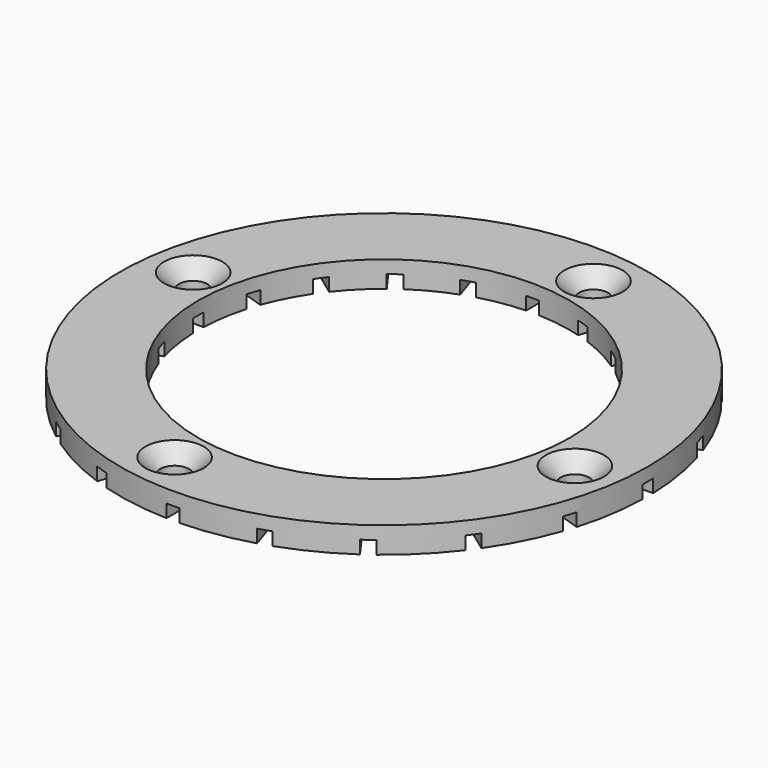
from build123d import *

# Parameters (mm, degrees)
F0_R           = 101.374
F0_R_2         = 71.394
F1_DEPTH       = 10
F3_DEPTH       = 5
F5_D           = 11
F5_CSINK_D     = 22.4
F5_CSINK_ANGLE = 90


with BuildPart() as f1:
    # F0 (on Top) → F1 (new body)
    with BuildSketch(Plane.XY):
        Circle(F0_R)
        Circle(F0_R_2, mode=Mode.SUBTRACT)
    extrude(amount=F1_DEPTH)

    # F2 (on face) → F3 (cut)
    with BuildSketch(Plane(origin=(0, 0, 0), x_dir=(1, 0, 0), z_dir=(0, 0, -1))):
        with BuildLine():
            ThreePointArc((2.5, 101.343168867), (1.2500950523, 101.3662919237), (0, 101.374))
            ThreePointArc((0, 101.374), (-1.2500950523, 101.3662919237), (-2.5, 101.343168867))
            Line((-2.5, 101.343168867), (-2.5, 71.3502153886))
            ThreePointArc((-2.5, 71.3502153886), (0, 71.394), (2.5, 71.3502153886))
            Line((2.5, 71.3502153886), (2.5, 101.343168867))
        make_face()
        with BuildLine():
            ThreePointArc((31.3262879268, 96.4124035626), (30.1349953836, 96.791373217), (28.939120153, 97.1556236189))
            Line((28.939120153, 97.1556236189), (19.6707878167, 68.6306297703))
            ThreePointArc((19.6707878167, 68.6306297703), (22.0619592964, 67.8997289244), (24.4260703981, 67.0855447985))
            Line((24.4260703981, 67.0855447985), (33.6944027344, 95.610538647))
            ThreePointArc((33.6944027344, 95.610538647), (32.5128174779, 96.0187719961), (31.3262879268, 96.4124035626))
        make_face()
        with BuildLine():
            Line((57.5454775947, 83.4578090079), (39.9160618674, 59.1929999324))
            ThreePointArc((39.9160618674, 59.1929999324), (41.9643403022, 57.7589592964), (43.9611468392, 56.254073671))
            Line((43.9611468392, 56.254073671), (61.5905625665, 80.5188827465))
            ThreePointArc((61.5905625665, 80.5188827465), (60.592959405, 81.2722655433), (59.5861417437, 82.0132890945))
            ThreePointArc((59.5861417437, 82.0132890945), (58.5702631175, 82.7418404095), (57.5454775947, 83.4578090079))
        make_face()
        with BuildLine():
            Line((80.5188827465, 61.5905625665), (56.254073671, 43.9611468392))
            ThreePointArc((56.254073671, 43.9611468392), (57.7589592964, 41.9643403022), (59.1929999324, 39.9160618674))
            Line((59.1929999324, 39.9160618674), (83.4578090079, 57.5454775947))
            ThreePointArc((83.4578090079, 57.5454775947), (82.7418395043, 58.5702643962), (82.0132872528, 59.5861442786))
            ThreePointArc((82.0132872528, 59.5861442786), (81.2722646069, 60.592960661), (80.5188827465, 61.5905625665))
        make_face()
        with BuildLine():
            Line((95.610538647, 33.6944027344), (67.0855447985, 24.4260703981))
            ThreePointArc((67.0855447985, 24.4260703981), (67.8997289244, 22.0619592964), (68.6306297703, 19.6707878167))
            Line((68.6306297703, 19.6707878167), (97.1556236189, 28.939120153))
            ThreePointArc((97.1556236189, 28.939120153), (96.7913734751, 30.1349945547), (96.4124040992, 31.3262862756))
            ThreePointArc((96.4124040992, 31.3262862756), (96.0187722746, 32.5128166557), (95.610538647, 33.6944027344))
        make_face()
        with BuildLine():
            Line((101.343168867, 2.5), (71.3502153886, 2.5))
            ThreePointArc((71.3502153886, 2.5), (71.3830530079, 1.2501916945), (71.394, 0))
            ThreePointArc((71.394, 0), (71.3830530079, -1.2501916945), (71.3502153886, -2.5))
            Line((71.3502153886, -2.5), (101.343168867, -2.5))
            ThreePointArc((101.343168867, -2.5), (101.3662919237, -1.2500950523), (101.374, 0))
            ThreePointArc((101.374, 0), (101.3662919237, 1.2500950523), (101.343168867, 2.5))
        make_face()
        with BuildLine():
            Line((97.1556236189, -28.939120153), (68.6306297703, -19.6707878167))
            ThreePointArc((68.6306297703, -19.6707878167), (67.8997289244, -22.0619592964), (67.0855447985, -24.4260703981))
            Line((67.0855447985, -24.4260703981), (95.610538647, -33.6944027344))
            ThreePointArc((95.610538647, -33.6944027344), (96.0187719961, -32.5128174779), (96.4124035626, -31.3262879268))
            ThreePointArc((96.4124035626, -31.3262879268), (96.791373217, -30.1349953836), (97.1556236189, -28.939120153))
        make_face()
        with BuildLine():
            Line((83.4578090079, -57.5454775947), (59.1929999324, -39.9160618674))
            ThreePointArc((59.1929999324, -39.9160618674), (57.7589592964, -41.9643403022), (56.254073671, -43.9611468392))
            Line((56.254073671, -43.9611468392), (80.5188827465, -61.5905625665))
            ThreePointArc((80.5188827465, -61.5905625665), (81.2722651856, -60.5929598848), (82.013288391, -59.586142712))
            ThreePointArc((82.013288391, -59.586142712), (82.7418400637, -58.5702636059), (83.4578090079, -57.5454775947))
        make_face()
        with BuildLine():
            Line((61.5905625665, -80.5188827465), (43.9611468392, -56.254073671))
            ThreePointArc((43.9611468392, -56.254073671), (41.9643403022, -57.7589592964), (39.9160618674, -59.1929999324))
            Line((39.9160618674, -59.1929999324), (57.5454775947, -83.4578090079))
            ThreePointArc((57.5454775947, -83.4578090079), (58.5702643962, -82.7418395043), (59.5861442786, -82.0132872528))
            ThreePointArc((59.5861442786, -82.0132872528), (60.592960661, -81.2722646069), (61.5905625665, -80.5188827465))
        make_face()
        with BuildLine():
            Line((33.6944027344, -95.610538647), (24.4260703981, -67.0855447985))
            ThreePointArc((24.4260703981, -67.0855447985), (22.0619592964, -67.8997289244), (19.6707878167, -68.6306297703))
            Line((19.6707878167, -68.6306297703), (28.939120153, -97.1556236189))
            ThreePointArc((28.939120153, -97.1556236189), (30.1349953836, -96.791373217), (31.3262879268, -96.4124035626))
            ThreePointArc((31.3262879268, -96.4124035626), (32.5128174779, -96.0187719961), (33.6944027344, -95.610538647))
        make_face()
        with BuildLine():
            ThreePointArc((2.5, -71.3502153886), (0, -71.394), (-2.5, -71.3502153886))
            Line((-2.5, -71.3502153886), (-2.5, -101.343168867))
            ThreePointArc((-2.5, -101.343168867), (-1.2500950523, -101.3662919237), (0, -101.374))
            ThreePointArc((0, -101.374), (1.2500950523, -101.3662919237), (2.5, -101.343168867))
            Line((2.5, -101.343168867), (2.5, -71.3502153886))
        make_face()
        with BuildLine():
            ThreePointArc((-19.6707878167, -68.6306297703), (-22.0619592964, -67.8997289244), (-24.4260703981, -67.0855447985))
            Line((-24.4260703981, -67.0855447985), (-33.6944027344, -95.610538647))
            ThreePointArc((-33.6944027344, -95.610538647), (-32.5128191824, -96.018771419), (-31.3262913498, -96.4124024505))
            ThreePointArc((-31.3262913498, -96.4124024505), (-30.1349971018, -96.791372682), (-28.939120153, -97.1556236189))
            Line((-28.939120153, -97.1556236189), (-19.6707878167, -68.6306297703))
        make_face()
        with BuildLine():
            ThreePointArc((-39.9160618674, -59.1929999324), (-41.9643403022, -57.7589592964), (-43.9611468392, -56.254073671))
            Line((-43.9611468392, -56.254073671), (-61.5905625665, -80.5188827465))
            ThreePointArc((-61.5905625665, -80.5188827465), (-60.5929601813, -81.2722649646), (-59.5861433104, -82.0132879563))
            ThreePointArc((-59.5861433104, -82.0132879563), (-58.5702639078, -82.7418398501), (-57.5454775947, -83.4578090079))
            Line((-57.5454775947, -83.4578090079), (-39.9160618674, -59.1929999324))
        make_face()
        with BuildLine():
            ThreePointArc((-56.254073671, -43.9611468392), (-57.7589592964, -41.9643403022), (-59.1929999324, -39.9160618674))
            Line((-59.1929999324, -39.9160618674), (-83.4578090079, -57.5454775947))
            ThreePointArc((-83.4578090079, -57.5454775947), (-82.7418404095, -58.5702631175), (-82.0132890945, -59.5861417437))
            ThreePointArc((-82.0132890945, -59.5861417437), (-81.2722655433, -60.592959405), (-80.5188827465, -61.5905625665))
            Line((-80.5188827465, -61.5905625665), (-56.254073671, -43.9611468392))
        make_face()
        with BuildLine():
            ThreePointArc((-67.0855447985, -24.4260703981), (-67.8997289244, -22.0619592964), (-68.6306297703, -19.6707878167))
            Line((-68.6306297703, -19.6707878167), (-97.1556236189, -28.939120153))
            ThreePointArc((-97.1556236189, -28.939120153), (-96.791373217, -30.1349953836), (-96.4124035626, -31.3262879268))
            ThreePointArc((-96.4124035626, -31.3262879268), (-96.0187719961, -32.5128174779), (-95.610538647, -33.6944027344))
            Line((-95.610538647, -33.6944027344), (-67.0855447985, -24.4260703981))
        make_face()
        with BuildLine():
            ThreePointArc((-71.3502153886, -2.5), (-71.394, 0), (-71.3502153886, 2.5))
            Line((-71.3502153886, 2.5), (-101.343168867, 2.5))
            ThreePointArc((-101.343168867, 2.5), (-101.3662919237, 1.2500950523), (-101.374, 0))
            ThreePointArc((-101.374, 0), (-101.3662919237, -1.2500950523), (-101.343168867, -2.5))
            Line((-101.343168867, -2.5), (-71.3502153886, -2.5))
        make_face()
        with BuildLine():
            ThreePointArc((-68.6306297703, 19.6707878167), (-67.8997289244, 22.0619592964), (-67.0855447985, 24.4260703981))
            Line((-67.0855447985, 24.4260703981), (-95.610538647, 33.6944027344))
            ThreePointArc((-95.610538647, 33.6944027344), (-96.0187717709, 32.5128181431), (-96.4124031286, 31.3262892627))
            ThreePointArc((-96.4124031286, 31.3262892627), (-96.7913730082, 30.1349960542), (-97.1556236189, 28.939120153))
            Line((-97.1556236189, 28.939120153), (-68.6306297703, 19.6707878167))
        make_face()
        with BuildLine():
            ThreePointArc((-59.1929999324, 39.9160618674), (-57.7589592964, 41.9643403022), (-56.254073671, 43.9611468392))
            Line((-56.254073671, 43.9611468392), (-80.5188827465, 61.5905625665))
            ThreePointArc((-80.5188827465, 61.5905625665), (-81.272264828, 60.5929603645), (-82.0132876875, 59.5861436802))
            ThreePointArc((-82.0132876875, 59.5861436802), (-82.741839718, 58.5702640943), (-83.4578090079, 57.5454775947))
            Line((-83.4578090079, 57.5454775947), (-59.1929999324, 39.9160618674))
        make_face()
        with BuildLine():
            ThreePointArc((-43.9611468392, 56.254073671), (-41.9643403022, 57.7589592964), (-39.9160618674, 59.1929999324))
            Line((-39.9160618674, 59.1929999324), (-57.5454775947, 83.4578090079))
            ThreePointArc((-57.5454775947, 83.4578090079), (-58.5702643962, 82.7418395043), (-59.5861442786, 82.0132872528))
            ThreePointArc((-59.5861442786, 82.0132872528), (-60.592960661, 81.2722646069), (-61.5905625665, 80.5188827465))
            Line((-61.5905625665, 80.5188827465), (-43.9611468392, 56.254073671))
        make_face()
        with BuildLine():
            Line((-19.6707878167, 68.6306297703), (-28.939120153, 97.1556236189))
            ThreePointArc((-28.939120153, 97.1556236189), (-30.134995798, 96.791373088), (-31.3262887525, 96.4124032944))
            ThreePointArc((-31.3262887525, 96.4124032944), (-32.5128178891, 96.0187718569), (-33.6944027344, 95.610538647))
            Line((-33.6944027344, 95.610538647), (-24.4260703981, 67.0855447985))
            ThreePointArc((-24.4260703981, 67.0855447985), (-22.0619592964, 67.8997289244), (-19.6707878167, 68.6306297703))
        make_face()
    extrude(amount=-F3_DEPTH, mode=Mode.SUBTRACT)

    # F5 (through all)
    with Locations(Plane.XY.offset(10)):
        with Locations((13.2969295284, 83.9535089506), (83.9535089506, -13.2969295284), (-83.9535089506, 13.2969295284), (-13.2969295284, -83.9535089506)):
            CounterSinkHole(F5_D / 2, F5_CSINK_D / 2, counter_sink_angle=F5_CSINK_ANGLE)


solid = f1.part
